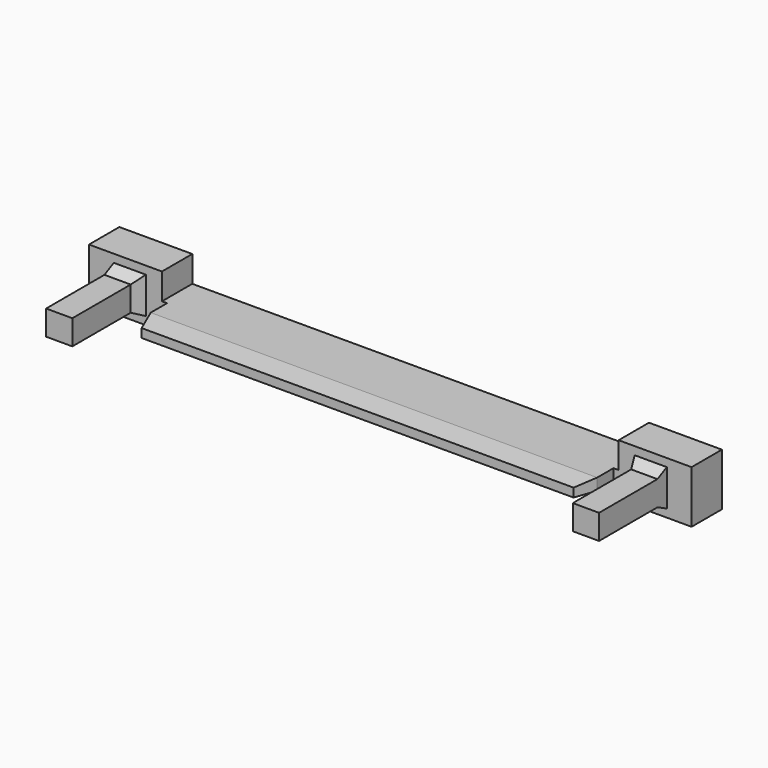
from build123d import *

# Parameters (mm, degrees)
PAD011_DEPTH              = 0.4
CHAMFER001_SIZE2          = 0.7
CHAMFER001_SIZE           = 0.1
SKETCH012_W               = 0.9
SKETCH012_H               = 0.85
PAD012_DEPTH              = 3
PAD010_DEPTH              = 4.2
CHAMFER_SIZE2             = 0.4
CHAMFER_SIZE              = 0.2
FUSION001_PLACEMENT_ANGLE = 180


with BuildPart() as chamfer001:
    # Sketch011 → Pad011 (new body)
    with BuildSketch(Plane.XY.offset(0.9)):
        Polygon((-7.65, 0), (7.65, 0), (7.65, -0.7), (7.4, -1.4), (-7.4, -1.4), (-7.65, -0.7), align=None)
    extrude(amount=PAD011_DEPTH)

    # Chamfer001
    chamfer001_edges = [chamfer001.edges().sort_by_distance(p)[0] for p in [
        (0, -1.4, 0.9),
    ]]
    chamfer001_side = chamfer001.faces().sort_by_distance((0, -1.4, 1.1))[0]
    chamfer(chamfer001_edges, length=CHAMFER001_SIZE, length2=CHAMFER001_SIZE2, reference=chamfer001_side)


with BuildPart() as body012:
    # Sketch012 → Pad012 (new body)
    with BuildSketch(Plane.XZ):
        Polygon((-10.325, 0), (-10.325, 1.8), (10.325, 1.8), (10.325, 0), (7.825, 0), (7.825, 0.9), (-7.825, 0.9), (-7.825, 0), align=None)
        with Locations((-9.025, 0.9)):
            Rectangle(SKETCH012_W, SKETCH012_H, mode=Mode.SUBTRACT)
        with Locations((9.025, 0.9)):
            Rectangle(SKETCH012_W, SKETCH012_H, mode=Mode.SUBTRACT)
    extrude(amount=PAD012_DEPTH)


with BuildPart() as fusion001:
    # Sketch010 → Pad010 (new body)
    with BuildSketch(Plane.XZ.offset(-1.3)):
        Polygon((-10.325, 0), (-10.325, 1.8), (10.325, 1.8), (10.325, 0), (7.825, 0), (7.825, 0.9), (-7.825, 0.9), (-7.825, 0), align=None)
    extrude(amount=PAD010_DEPTH)

    # Cut002: cut Body012
    add(body012.part, mode=Mode.SUBTRACT)

    # Chamfer
    chamfer_edges = [fusion001.edges().sort_by_distance(p)[0] for p in [
        (8.575, 0, 0.9),
        (9.025, 0, 0.475),
        (9.025, 0, 1.325),
        (-9.025, 0, 0.475),
        (-9.025, 0, 1.325),
        (-8.575, 0, 0.9),
    ]]
    chamfer_side = fusion001.faces().sort_by_distance((0, 0, 1.19405))[0]
    chamfer(chamfer_edges, length=CHAMFER_SIZE, length2=CHAMFER_SIZE2, reference=chamfer_side)

    # Fusion001: union Chamfer001
    add(chamfer001.part)


with BuildPart() as fusion001_1:
    # Fusion001 placement: moved
    add(fusion001.part.moved(Location((0, 1.1, 2))).rotate(Axis((0, 1.1, 2), (0, 1, 0)), FUSION001_PLACEMENT_ANGLE))


solid = fusion001_1.part
